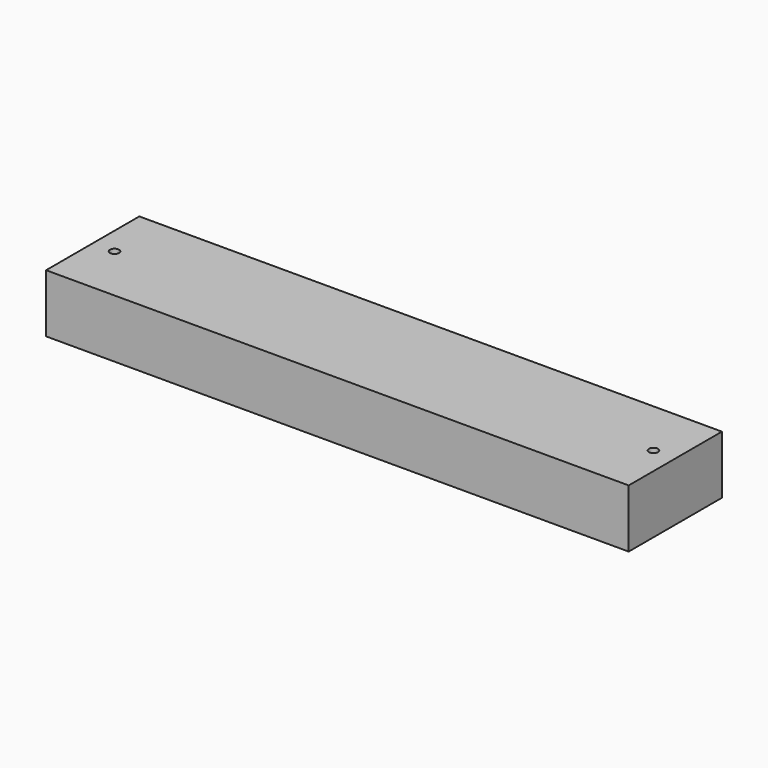
from build123d import *

# Parameters (mm, degrees)
F1_DEPTH = 50.8
F2_R     = 3.96875
F3_DEPTH = 38.1


with BuildPart() as f1:
    # F0 (on Top) → F1 (new body)
    with BuildSketch(Plane.XY):
        Polygon((254, -50.8), (254, 50.8), (0, 50.8), (-254, 50.8), (-254, -50.8), align=None)
    extrude(amount=-F1_DEPTH)

    # F2 (on Top) → F3 (cut)
    with BuildSketch(Plane.XY):
        with Locations((-234.95, 0)):
            Circle(F2_R)
        with Locations((234.95, 0)):
            Circle(F2_R)
    extrude(amount=-F3_DEPTH, mode=Mode.SUBTRACT)


solid = f1.part
